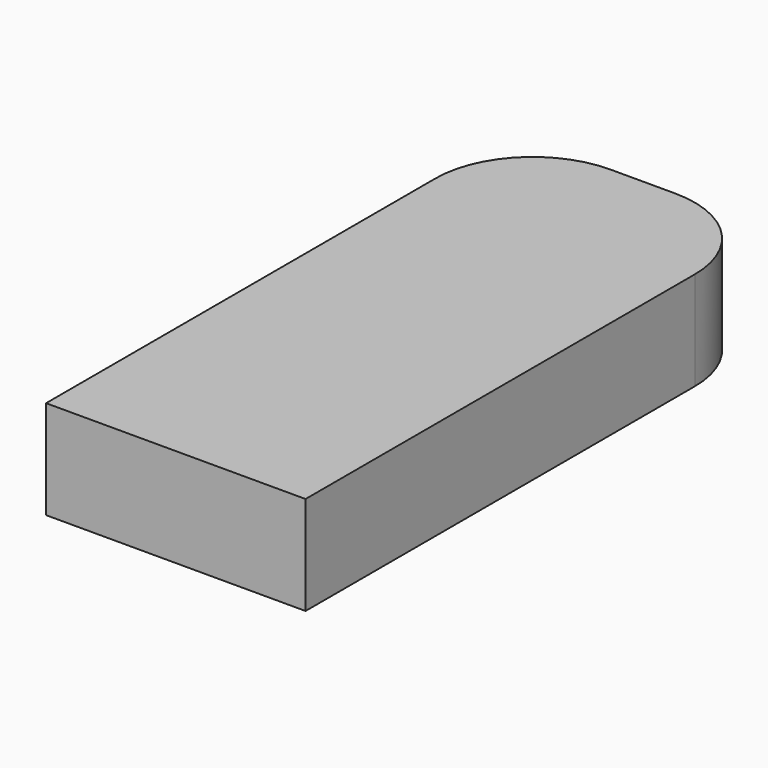
from build123d import *

# Parameters (mm, degrees)
F1_DEPTH      = 3.8
F1_DEPTH_BACK = 3.8
F2_R          = 7.5


with BuildPart() as f1:
    # F0 (on Top) → F1 (new body, two sides)
    with BuildSketch(Plane.XY) as f1_sk:
        Polygon((0, 45), (0, 0), (10, 0), (20, 0), (20, 45), align=None)
    extrude(amount=F1_DEPTH)
    extrude(f1_sk.sketch, amount=-F1_DEPTH_BACK)

    # F2
    f2_edges = [f1.edges().sort_by_distance(p)[0] for p in [
        (20, 45, 0),
        (0, 45, 0),
    ]]
    fillet(f2_edges, radius=F2_R)


solid = f1.part
